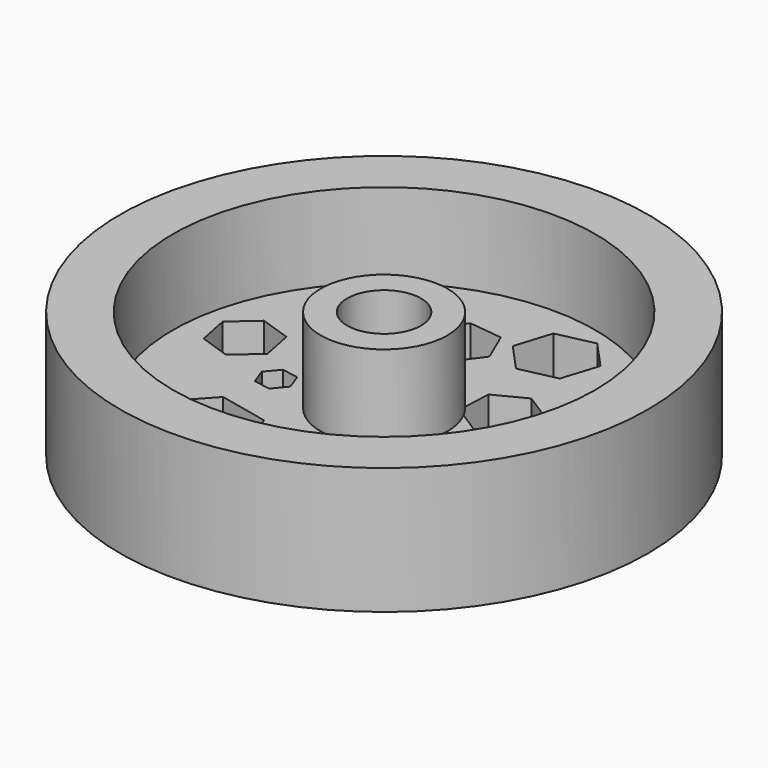
from build123d import *

# Parameters (mm, degrees)
F0_R     = 12.5
F1_DEPTH = 6
F2_R     = 10
F2_R_2   = 3
F3_DEPTH = 4
F5_D     = 3.5
F7_DEPTH = 25
F8_DEPTH = 25
F9_DEPTH = 25


with BuildPart() as f1:
    # F0 (on Top) → F1 (new body)
    with BuildSketch(Plane.XY):
        Circle(F0_R)
    extrude(amount=F1_DEPTH)

    # F2 (on face) → F3 (cut)
    with BuildSketch(Plane.XY.offset(6)):
        Circle(F2_R)
        Circle(F2_R_2, mode=Mode.SUBTRACT)
    extrude(amount=-F3_DEPTH, mode=Mode.SUBTRACT)

    # F5 (through all)
    with Locations(Plane.XY.offset(6)):
        with Locations((0, 0)):
            Hole(F5_D / 2)

    # F6 (on face) → F7 (cut)
    with BuildSketch(Plane.XY.offset(2)):
        Polygon((-6.076968, 0.687006), (-6.376841, 2.190097), (-7.828492, 2.681945), (-8.980271, 1.670702), (-8.680398, 0.167611), (-7.228746, -0.324237), align=None)
        Polygon((-3.746789, -7.621035), (-2.120291, -5.845455), (-2.844739, -3.549077), (-5.195685, -3.028278), (-6.822183, -4.803858), (-6.097735, -7.100236), align=None)
        Polygon((-4.772137, 3.967759), (-3.990072, 5.552483), (-4.971451, 7.022133), (-6.734895, 6.907059), (-7.516959, 5.322335), (-6.53558, 3.852685), align=None)
        Polygon((-0.476487, 4.366405), (0.474315, 5.646003), (-0.158448, 7.109221), (-1.742013, 7.292841), (-2.692815, 6.013243), (-2.060052, 4.550025), align=None)
        Polygon((1.836744, 5.509974), (3.602874, 5.897518), (4.150317, 7.620804), (2.931629, 8.956546), (1.165498, 8.569002), (0.618056, 6.845716), align=None)
        Polygon((3.627879, 0.757783), (5.067878, 1.502148), (5.143239, 3.121406), (3.778601, 3.9963), (2.338601, 3.251935), (2.26324, 1.632677), align=None)
        Polygon((4.707175, -4.991184), (4.856818, -3.136321), (3.325281, -2.079295), (1.6441, -2.877132), (1.494457, -4.731995), (3.025994, -5.789022), align=None)
        Polygon((7.328884, -1.39316), (7.034425, 0), (5.680684, 0.441571), (4.621402, -0.510017), (4.91586, -1.903177), (6.269601, -2.344748), align=None)
        Polygon((-4.28992, -1.446621), (-3.774462, -0.835584), (-4.045906, -0.083666), (-4.832809, 0.057215), (-5.348267, -0.553822), (-5.076822, -1.30574), align=None)
        Polygon((0.89645, -8.866839), (1.712371, -7.360636), (0.815921, -5.900926), (-0.89645, -5.947419), (-1.712371, -7.453623), (-0.815921, -8.913333), align=None)
        Polygon((6.360979, 3.235691), (7.459494, 2.838528), (8.352706, 3.591288), (8.147402, 4.741212), (7.048886, 5.138376), (6.155675, 4.385615), align=None)
    extrude(amount=-F7_DEPTH, mode=Mode.SUBTRACT)

    # F6 (on face) → F8 (cut)
    with BuildSketch(Plane.XY.offset(2)):
        Polygon((-6.076968, 0.687006), (-6.376841, 2.190097), (-7.828492, 2.681945), (-8.980271, 1.670702), (-8.680398, 0.167611), (-7.228746, -0.324237), align=None)
        Polygon((-3.746789, -7.621035), (-2.120291, -5.845455), (-2.844739, -3.549077), (-5.195685, -3.028278), (-6.822183, -4.803858), (-6.097735, -7.100236), align=None)
        Polygon((-4.772137, 3.967759), (-3.990072, 5.552483), (-4.971451, 7.022133), (-6.734895, 6.907059), (-7.516959, 5.322335), (-6.53558, 3.852685), align=None)
        Polygon((-0.476487, 4.366405), (0.474315, 5.646003), (-0.158448, 7.109221), (-1.742013, 7.292841), (-2.692815, 6.013243), (-2.060052, 4.550025), align=None)
        Polygon((1.836744, 5.509974), (3.602874, 5.897518), (4.150317, 7.620804), (2.931629, 8.956546), (1.165498, 8.569002), (0.618056, 6.845716), align=None)
        Polygon((3.627879, 0.757783), (5.067878, 1.502148), (5.143239, 3.121406), (3.778601, 3.9963), (2.338601, 3.251935), (2.26324, 1.632677), align=None)
        Polygon((4.707175, -4.991184), (4.856818, -3.136321), (3.325281, -2.079295), (1.6441, -2.877132), (1.494457, -4.731995), (3.025994, -5.789022), align=None)
        Polygon((7.328884, -1.39316), (7.034425, 0), (5.680684, 0.441571), (4.621402, -0.510017), (4.91586, -1.903177), (6.269601, -2.344748), align=None)
        Polygon((-4.28992, -1.446621), (-3.774462, -0.835584), (-4.045906, -0.083666), (-4.832809, 0.057215), (-5.348267, -0.553822), (-5.076822, -1.30574), align=None)
        Polygon((0.89645, -8.866839), (1.712371, -7.360636), (0.815921, -5.900926), (-0.89645, -5.947419), (-1.712371, -7.453623), (-0.815921, -8.913333), align=None)
        Polygon((6.360979, 3.235691), (7.459494, 2.838528), (8.352706, 3.591288), (8.147402, 4.741212), (7.048886, 5.138376), (6.155675, 4.385615), align=None)
    extrude(amount=-F8_DEPTH, mode=Mode.SUBTRACT)

    # F6 (on face) → F9 (cut)
    with BuildSketch(Plane.XY.offset(2)):
        Polygon((-6.076968, 0.687006), (-6.376841, 2.190097), (-7.828492, 2.681945), (-8.980271, 1.670702), (-8.680398, 0.167611), (-7.228746, -0.324237), align=None)
        Polygon((-3.746789, -7.621035), (-2.120291, -5.845455), (-2.844739, -3.549077), (-5.195685, -3.028278), (-6.822183, -4.803858), (-6.097735, -7.100236), align=None)
        Polygon((-4.772137, 3.967759), (-3.990072, 5.552483), (-4.971451, 7.022133), (-6.734895, 6.907059), (-7.516959, 5.322335), (-6.53558, 3.852685), align=None)
        Polygon((-0.476487, 4.366405), (0.474315, 5.646003), (-0.158448, 7.109221), (-1.742013, 7.292841), (-2.692815, 6.013243), (-2.060052, 4.550025), align=None)
        Polygon((1.836744, 5.509974), (3.602874, 5.897518), (4.150317, 7.620804), (2.931629, 8.956546), (1.165498, 8.569002), (0.618056, 6.845716), align=None)
        Polygon((3.627879, 0.757783), (5.067878, 1.502148), (5.143239, 3.121406), (3.778601, 3.9963), (2.338601, 3.251935), (2.26324, 1.632677), align=None)
        Polygon((4.707175, -4.991184), (4.856818, -3.136321), (3.325281, -2.079295), (1.6441, -2.877132), (1.494457, -4.731995), (3.025994, -5.789022), align=None)
        Polygon((7.328884, -1.39316), (7.034425, 0), (5.680684, 0.441571), (4.621402, -0.510017), (4.91586, -1.903177), (6.269601, -2.344748), align=None)
        Polygon((-4.28992, -1.446621), (-3.774462, -0.835584), (-4.045906, -0.083666), (-4.832809, 0.057215), (-5.348267, -0.553822), (-5.076822, -1.30574), align=None)
        Polygon((0.89645, -8.866839), (1.712371, -7.360636), (0.815921, -5.900926), (-0.89645, -5.947419), (-1.712371, -7.453623), (-0.815921, -8.913333), align=None)
        Polygon((6.360979, 3.235691), (7.459494, 2.838528), (8.352706, 3.591288), (8.147402, 4.741212), (7.048886, 5.138376), (6.155675, 4.385615), align=None)
    extrude(amount=-F9_DEPTH, mode=Mode.SUBTRACT)


solid = f1.part
